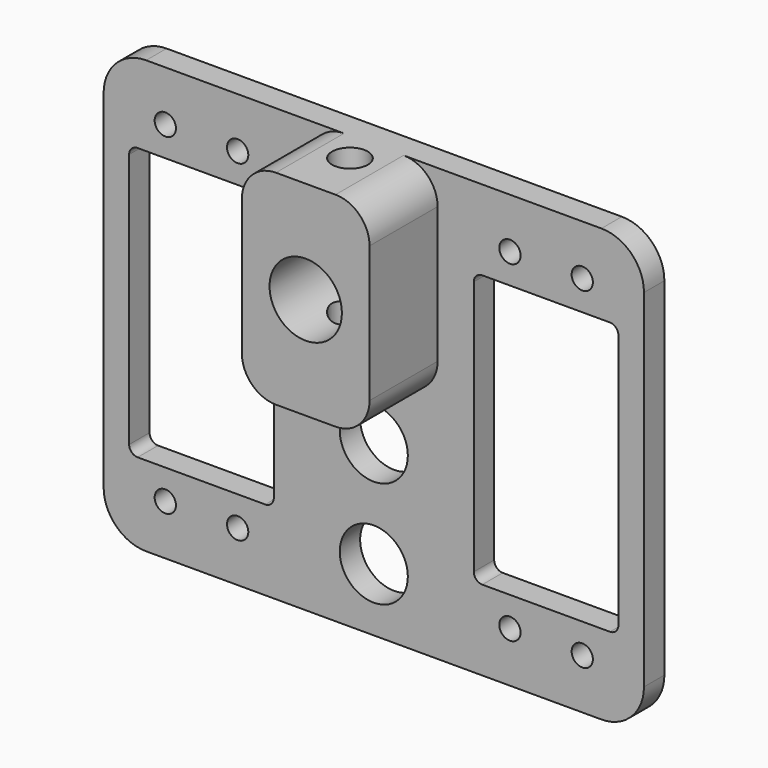
from build123d import *

# Parameters (mm, degrees)
F0_W      = 63.5
F0_H      = 50.8
F0_R      = 4.25
F1_DEPTH  = 3
F2_W      = 17
F2_H      = 32
F3_DEPTH  = 3.001
F4_R      = 5
F5_W      = 15
F5_H      = 24
F5_R      = 4.25
F6_DEPTH  = 10
F8_D      = 4.2
F9_R      = 4
F10_R     = 4
F11_DEPTH = 3.0010001
F12_R     = 1.25
F13_DEPTH = 13.0010001
F14_R     = 1


with BuildPart() as f1:
    # F0 (on Front) → F1 (new body)
    with BuildSketch(Plane.XZ):
        Rectangle(F0_W, F0_H)
        with Locations((0, 13.4)):
            Circle(F0_R, mode=Mode.SUBTRACT)
    extrude(amount=F1_DEPTH)

    # F2 (on face) → F3 (cut, through all)
    with BuildSketch(Plane.XZ.offset(3)):
        with Locations((20.25, 0)):
            Rectangle(F2_W, F2_H)
        with Locations((-20.25, 0)):
            Rectangle(F2_W, F2_H)
    extrude(amount=-F3_DEPTH, mode=Mode.SUBTRACT)

    # F4
    f4_edges = [f1.edges().sort_by_distance(p)[0] for p in [
        (-31.75, -1.5, 25.4),
        (31.75, -1.5, 25.4),
        (31.75, -1.5, -25.4),
        (-31.75, -1.5, -25.4),
    ]]
    fillet(f4_edges, radius=F4_R)

    # F5 (on face) → F6 (join)
    with BuildSketch(Plane.XZ.offset(3)):
        with Locations((0, 13.4)):
            Rectangle(F5_W, F5_H)
        with Locations((0, 13.4)):
            Circle(F5_R, mode=Mode.SUBTRACT)
    extrude(amount=F6_DEPTH)

    # F8 (through all)
    with Locations(Plane.XY.offset(25.4)):
        with Locations((0, -6.5)):
            Hole(F8_D / 2)

    # F9
    f9_edges = [f1.edges().sort_by_distance(p)[0] for p in [
        (-7.5, -8, 1.4),
        (7.5, -8, 1.4),
        (7.5, -8, 25.4),
        (-7.5, -8, 25.4),
    ]]
    fillet(f9_edges, radius=F9_R)

    # F10 (on face) → F11 (cut, through all)
    with BuildSketch(Plane.XZ.offset(3)):
        with Locations((0, -5.4962742142)):
            Circle(F10_R)
        with Locations((0, -18.0155653507)):
            Circle(F10_R)
    extrude(amount=-F11_DEPTH, mode=Mode.SUBTRACT)

    # F12 (on face) → F13 (cut, through all)
    with BuildSketch(Plane(origin=(0, 0, 0), x_dir=(-1, 0, 0), z_dir=(0, 1, 0))):
        with Locations((-24.5, 19.5)):
            Circle(F12_R)
        with Locations((-16, 19.5)):
            Circle(F12_R)
        with Locations((16, 19.5)):
            Circle(F12_R)
        with Locations((24.5, 19.5)):
            Circle(F12_R)
        with Locations((-24.5, -19.5)):
            Circle(F12_R)
        with Locations((-16, -19.5)):
            Circle(F12_R)
        with Locations((16, -19.5)):
            Circle(F12_R)
        with Locations((24.5, -19.5)):
            Circle(F12_R)
    extrude(amount=-F13_DEPTH, mode=Mode.SUBTRACT)

    # F14
    f14_edges = [f1.edges().sort_by_distance(p)[0] for p in [
        (28.75, -1.5, 16),
        (-11.75, -1.5, 16),
        (11.75, -1.5, 16),
        (-28.75, -1.5, 16),
        (-28.75, -1.5, -16),
        (11.75, -1.5, -16),
        (-11.75, -1.5, -16),
        (28.75, -1.5, -16),
    ]]
    fillet(f14_edges, radius=F14_R)


solid = f1.part
